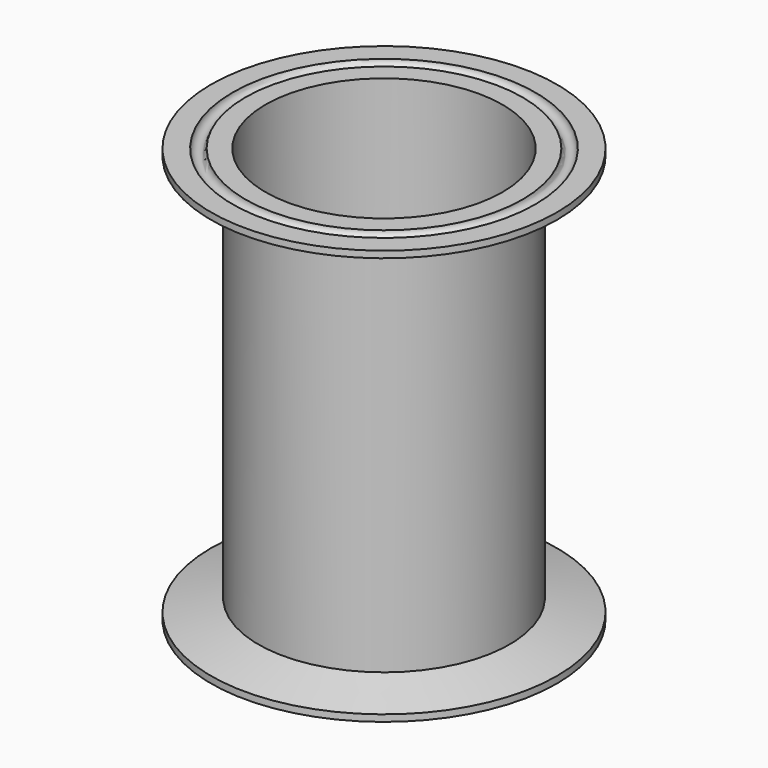
from build123d import *


with BuildPart() as f1:
    # F0 (on Front) → F1 (revolve)
    with BuildSketch(Plane.XZ):
        with BuildLine():
            Line((-58.4318702234, 0), (-53, 0))
            Line((-53, 0), (-53, 8))
            Line((-53, 8), (-73, 2.8170731384))
            Line((-73, 2.8170731384), (-73, 0))
            Line((-73, 0), (-63.8797367798, 0))
            ThreePointArc((-63.8797367798, 0), (-61.1558035016, 2.7239332782), (-58.4318702234, 0))
        make_face()
        with BuildLine():
            Line((-53, 167), (-53, 175))
            Line((-53, 175), (-58.4318702234, 175))
            ThreePointArc((-58.4318702234, 175), (-61.1558035016, 172.2760667218), (-63.8797367798, 175))
            Line((-63.8797367798, 175), (-73, 175))
            Line((-73, 175), (-73, 172.1829268616))
            Line((-73, 172.1829268616), (-53, 167))
        make_face()
        Polygon((-53, 0), (-50, 0), (-50, 87.5), (-50, 175), (-53, 175), (-53, 167), (-53, 87.5), (-53, 8), align=None)
    revolve(axis=Axis((0, 0, 131.25), (0, 0, 1)))


solid = f1.part
